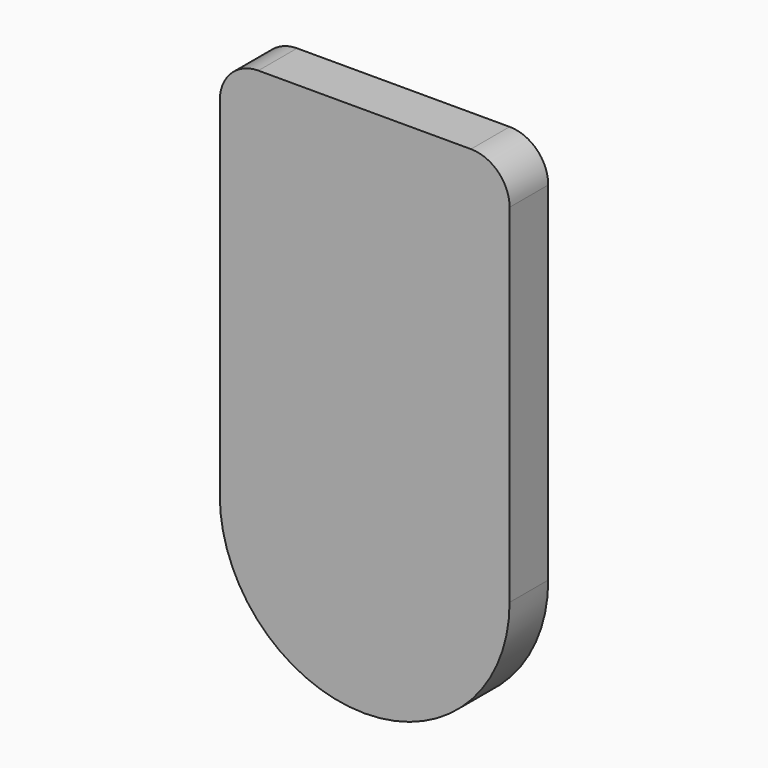
from build123d import *

# Parameters (mm, degrees)
F1_DEPTH = 6.35
F2_R     = 5.08


with BuildPart() as f1:
    # F0 (on Front) → F1 (new body)
    with BuildSketch(Plane.XZ):
        with BuildLine():
            Line((-19.05, 50.8), (-19.05, 0))
            ThreePointArc((-19.05, 0), (0, -19.05), (19.05, 0))
            Line((19.05, 0), (19.05, 50.8))
            Line((19.05, 50.8), (-19.05, 50.8))
        make_face()
    extrude(amount=F1_DEPTH)

    # F2
    f2_edges = [f1.edges().sort_by_distance(p)[0] for p in [
        (19.05, -3.175, 50.8),
        (-19.05, -3.175, 50.8),
    ]]
    fillet(f2_edges, radius=F2_R)


solid = f1.part
